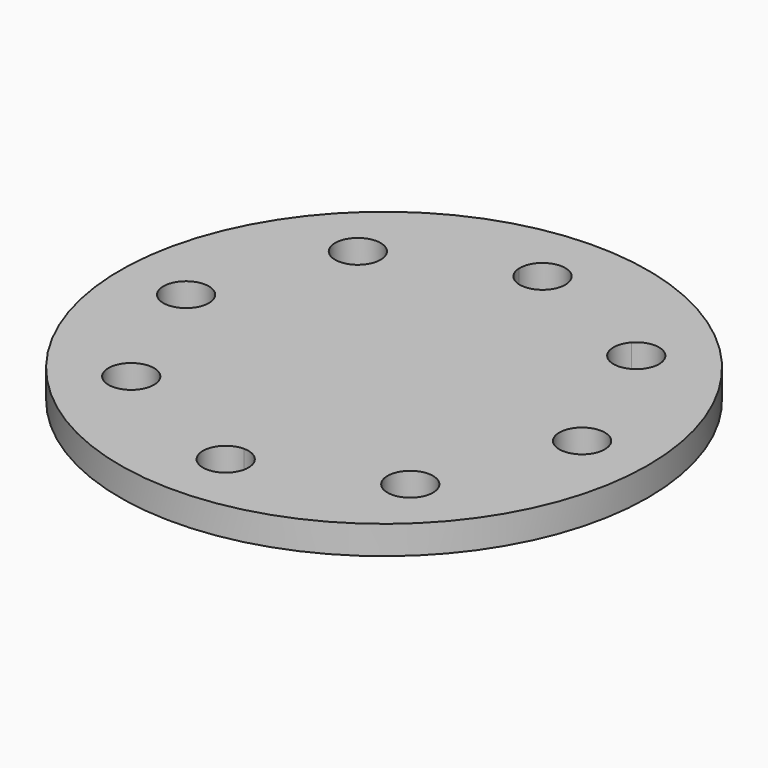
from build123d import *

# Parameters (mm, degrees)
F2_R     = 20
F3_DEPTH = 507.706612
F4_DEPTH = 346.473515


with BuildPart() as f1:
    # F0 (on Front) → F1 (revolve)
    with BuildSketch(Plane.XZ):
        Polygon((-122.14937, -25), (-26.473614, -25), (109.813852, -25), (109.813852, 0), (0, 0), (-26.473614, 0), (-122.14937, 0), align=None)
    revolve(axis=Axis((-122.14937, 0, 176.894253), (0, 0, 1)))

    # F2 (on face) → F3 (cut)
    with BuildSketch(Plane(origin=(0, 0, -25), x_dir=(1, 0, 0), z_dir=(0, 0, -1))):
        with Locations((-296.138028, 0)):
            Circle(F2_R)
    extrude(amount=-F3_DEPTH, mode=Mode.SUBTRACT)

    # F2 (on face) → F4 (cut)
    with BuildSketch(Plane(origin=(0, 0, -25), x_dir=(1, 0, 0), z_dir=(0, 0, -1))):
        with Locations((-249.620262, 118.417841)):
            Circle(F2_R)
        with Locations((-296.138028, 0)):
            Circle(F2_R)
        with BuildLine():
            ThreePointArc((-229.275148, -137.103469), (-225.584149, -130.955878), (-224.298739, -123.901511))
            ThreePointArc((-224.298739, -123.901511), (-263.01333, -116.847144), (-229.275148, -137.103469))
        make_face()
        with BuildLine():
            ThreePointArc((-102.14937, 173.988658), (-136.306099, 188.116185), (-122.108072, 153.9887))
            ThreePointArc((-122.108072, 153.9887), (-107.992641, 159.861131), (-102.14937, 173.988658))
        make_face()
        with BuildLine():
            ThreePointArc((21.757231, -122.144211), (-5.454588, -103.48973), (-13.041736, -135.597485))
            ThreePointArc((-13.041736, -135.597485), (8.96905, -140.798692), (21.757231, -122.144211))
        make_face()
        with BuildLine():
            ThreePointArc((-122.112818, -154.017654), (-135.839579, -159.476481), (-142.075022, -172.868345))
            ThreePointArc((-142.075022, -172.868345), (-132.108072, -173.730088), (-122.108072, -174.017653))
            Line((-122.108072, -174.017653), (-122.112818, -154.017654))
        make_face()
        with BuildLine():
            ThreePointArc((-122.108072, -174.017653), (-132.108072, -173.730088), (-142.075022, -172.868345))
            ThreePointArc((-142.075022, -172.868345), (-122.682964, -194.009389), (-102.108072, -174.017653))
            ThreePointArc((-102.108072, -174.017653), (-102.116336, -173.442761), (-102.141122, -172.868345))
            ThreePointArc((-102.141122, -172.868345), (-112.108072, -173.730088), (-122.108072, -174.017653))
        make_face()
        with BuildLine():
            ThreePointArc((-102.141122, -172.868345), (-108.380016, -159.473222), (-122.112818, -154.017654))
            Line((-122.112818, -154.017654), (-122.108072, -174.017653))
            ThreePointArc((-122.108072, -174.017653), (-112.108072, -173.730088), (-102.141122, -172.868345))
        make_face()
        with Locations((51.839288, 0)):
            Circle(F2_R)
        with Locations((0, 123.901511)):
            Circle(F2_R)
    extrude(amount=-F4_DEPTH, mode=Mode.SUBTRACT)


solid = f1.part
